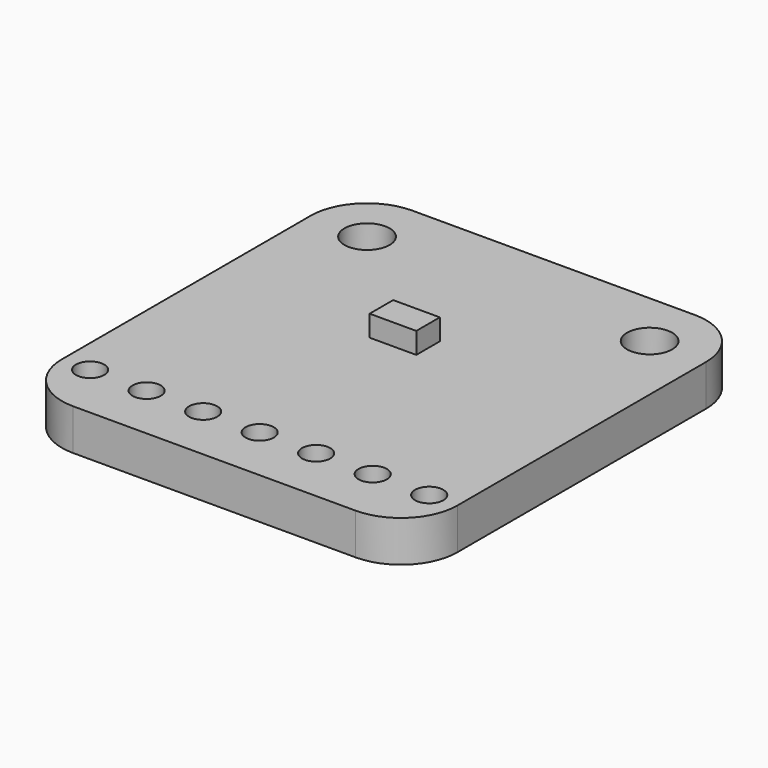
from build123d import *

# Parameters (mm, degrees)
F0_R     = 0.635
F0_R_2   = 1.015
F1_DEPTH = 1.85
F2_W     = 2.096224
F2_H     = 1.321533
F3_DEPTH = 0.95


with BuildPart() as f1:
    # F0 (on Top) → F1 (new body)
    with BuildSketch(Plane.XY):
        with BuildLine():
            ThreePointArc((-2.54, -13.97), (-1.796051, -15.766051), (0, -16.51))
            Line((0, -16.51), (12.7, -16.51))
            ThreePointArc((12.7, -16.51), (14.496051, -15.766051), (15.24, -13.97))
            Line((15.24, -13.97), (15.24, 0))
            ThreePointArc((15.24, 0), (14.496051, 1.796051), (12.7, 2.54))
            Line((12.7, 2.54), (0, 2.54))
            ThreePointArc((0, 2.54), (-1.796051, 1.796051), (-2.54, 0))
            Line((-2.54, 0), (-2.54, -13.97))
        make_face()
        with Locations((-1.27, -13.97)):
            Circle(F0_R, mode=Mode.SUBTRACT)
        with Locations((1.27, -13.97)):
            Circle(F0_R, mode=Mode.SUBTRACT)
        with Locations((3.81, -13.97)):
            Circle(F0_R, mode=Mode.SUBTRACT)
        with Locations((6.35, -13.97)):
            Circle(F0_R, mode=Mode.SUBTRACT)
        with Locations((8.89, -13.97)):
            Circle(F0_R, mode=Mode.SUBTRACT)
        with Locations((11.43, -13.97)):
            Circle(F0_R, mode=Mode.SUBTRACT)
        with Locations((13.97, -13.97)):
            Circle(F0_R, mode=Mode.SUBTRACT)
        Circle(F0_R_2, mode=Mode.SUBTRACT)
        with Locations((12.7, 0)):
            Circle(F0_R_2, mode=Mode.SUBTRACT)
    extrude(amount=F1_DEPTH)

    # F2 (on face) → F3 (join)
    with BuildSketch(Plane.XY.offset(1.85)):
        with Locations((5.915654, -5.278095)):
            Rectangle(F2_W, F2_H)
    extrude(amount=F3_DEPTH)


solid = f1.part
